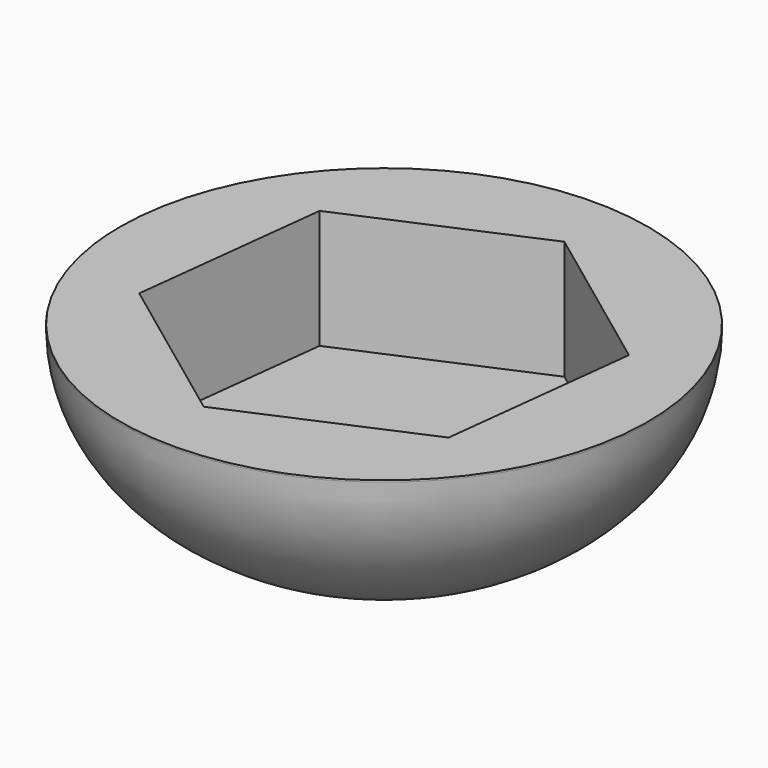
from build123d import *

# Parameters (mm, degrees)
F2_W     = 23.8761305809
F2_H     = 26.7452821136
F5_DEPTH = 4.5


with BuildPart() as f1:
    # F0 (on Front) → F1 (revolve)
    with BuildSketch(Plane.XZ):
        with BuildLine():
            Line((-1.1916856134, 0.0534447201), (0, 0.0534447201))
            Line((0, 0.0534447201), (0, 30))
            add(Edge.make_bspline(
                [(-10, 7.5), (-9.8021219863, 10.0561250989), (-6.1099474992, 10.8779325172), (-4.9948301441, 15.0990017205), (-4.1623246174, 20.313894175), (-2.7045884363, 26.9203276568), (-1.4088483591, 30.026155894), (0, 30)],
                knots=[0, 0, 0, 0, 0.2042733355, 0.3791251291, 0.5879711886, 0.8271109457, 1, 1, 1, 1], degree=3))
            add(Edge.make_bspline(
                [(-10, 7.5), (-10, 0.8463505524), (-1.1916856134, 0.0534447201)],
                knots=[3.1415926536, 3.1415926536, 3.1415926536, 4.5929365462, 4.5929365462, 4.5929365462], degree=2, weights=[1, 0.7480536616, 1]))
        make_face()
    revolve(axis=Axis((0, 0, 15.02672236), (0, 0, 1)))

    # F2 (on Front) → F3 (revolve, cut)
    with BuildSketch(Plane.XZ):
        with Locations((11.9380652905, 20.9349952638)):
            Rectangle(F2_W, F2_H)
    revolve(axis=Axis((0, 0, 20.9349952638), (0, 0, 1)), mode=Mode.SUBTRACT)

    # F4 (on face) → F5 (cut)
    with BuildSketch(Plane.XY.offset(7.562354207)):
        Polygon((-0.8649954612, -7.4555426486), (6.0241916021, -4.4768793678), (6.8891870633, 2.9786632808), (0.8649954612, 7.4555426486), (-6.0241916021, 4.4768793678), (-6.8891870633, -2.9786632808), align=None)
    extrude(amount=-F5_DEPTH, mode=Mode.SUBTRACT)


solid = f1.part
